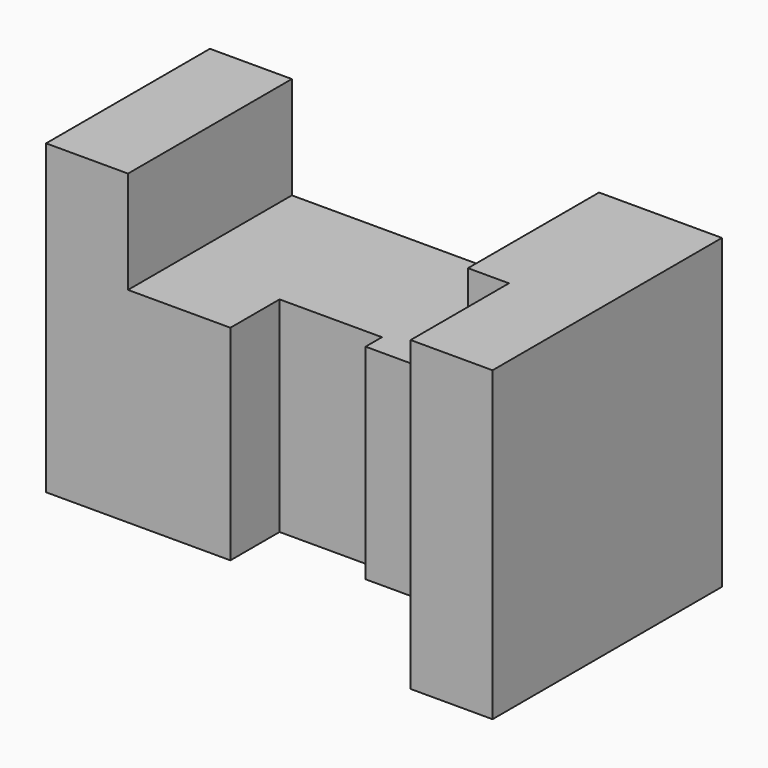
from build123d import *

# Parameters (mm, degrees)
F1_DEPTH = 75
F2_W     = 25
F2_H     = 25
F3_DEPTH = 50.001


with BuildPart() as f1:
    # F0 (on Top) → F1 (new body)
    with BuildSketch(Plane.XY):
        Polygon((0, 50), (0, 0), (45, 0), (45, 15), (70, 15), (70, 10), (105, 10), (105, -20), (125, -20), (125, 50), align=None)
    extrude(amount=F1_DEPTH)

    # F2 (on face) → F3 (cut, through all)
    with BuildSketch(Plane.XZ):
        Polygon((70, 75), (45, 75), (45, 50), (95, 50), (95, 75), align=None)
        with Locations((32.5, 62.5)):
            Rectangle(F2_W, F2_H)
    extrude(amount=-F3_DEPTH, mode=Mode.SUBTRACT)


solid = f1.part
